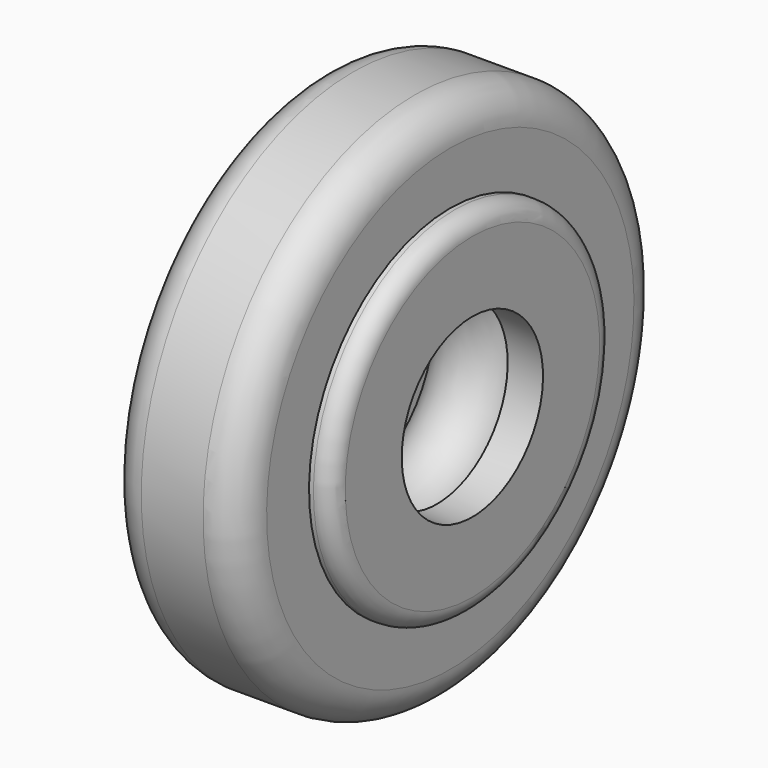
from build123d import *


with BuildPart() as f1:
    # F0 (on Front) → F1 (revolve)
    with BuildSketch(Plane.XZ):
        with BuildLine():
            Line((1.75, 15), (0, 15))
            Line((0, 15), (-1.75, 15))
            ThreePointArc((-1.75, 15), (-3.164214, 14.414214), (-3.75, 13))
            Line((-3.75, 13), (-3.75, 10))
            Line((-3.75, 10), (0, 10))
            Line((0, 10), (3.75, 10))
            Line((3.75, 10), (3.75, 13))
            ThreePointArc((3.75, 13), (3.164214, 14.414214), (1.75, 15))
        make_face()
        with BuildLine():
            Line((0, 10), (-3.75, 10))
            Line((-3.75, 10), (-4, 10))
            ThreePointArc((-4, 10), (-4.707107, 9.707107), (-5, 9))
            Line((-5, 9), (-5, 5))
            Line((-5, 5), (-3, 5))
            Line((-3, 5), (-3, 7.5))
            Line((-3, 7.5), (-2.5, 7.5))
            ThreePointArc((-2.5, 7.5), (-1.767767, 9.267767), (0, 10))
        make_face()
        with BuildLine():
            ThreePointArc((2.5, 7.5), (1.767767, 9.267767), (0, 10))
            ThreePointArc((0, 10), (-1.767767, 9.267767), (-2.5, 7.5))
            ThreePointArc((-2.5, 7.5), (0, 5), (2.5, 7.5))
        make_face()
        with BuildLine():
            Line((4, 10), (3.75, 10))
            Line((3.75, 10), (0, 10))
            ThreePointArc((0, 10), (1.767767, 9.267767), (2.5, 7.5))
            Line((2.5, 7.5), (3, 7.5))
            Line((3, 7.5), (3, 5))
            Line((3, 5), (5, 5))
            Line((5, 5), (5, 9))
            ThreePointArc((5, 9), (4.707107, 9.707107), (4, 10))
        make_face()
    revolve(axis=Axis((-11.902174, 0, 0), (-1, 0, 0)))


solid = f1.part
